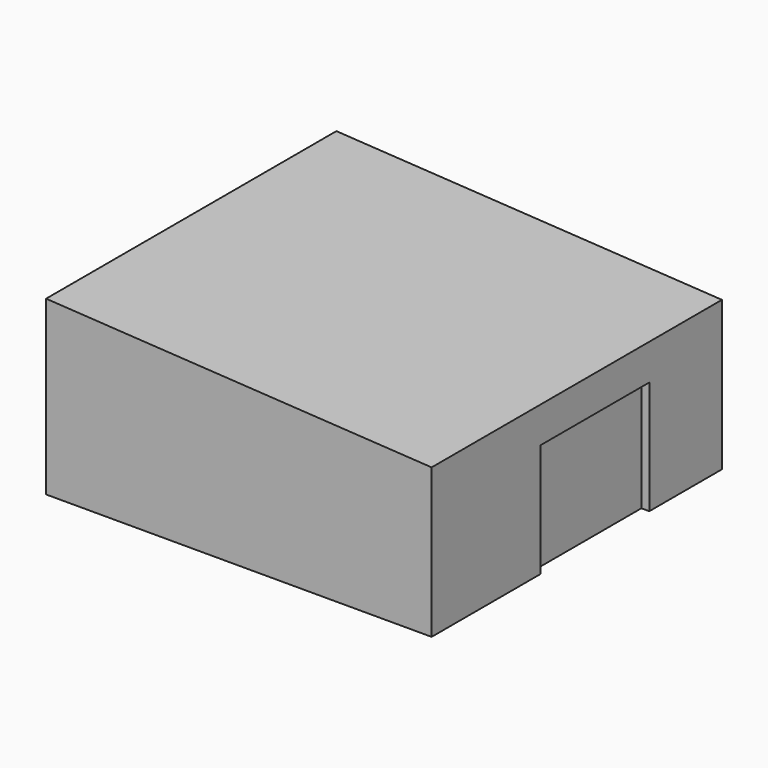
from build123d import *

# Parameters (mm, degrees)
F0_W     = 5000
F0_H     = 3500
F1_DEPTH = 8000
F3_W     = 3000
F3_H     = 2500
F4_DEPTH = 200


with BuildPart() as f1:
    # F0 (on Front) → F1 (new body)
    with BuildSketch(Plane.XZ):
        with Locations((-2500, 1750)):
            Rectangle(F0_W, F0_H)
        Polygon((0, 3500), (0, 0), (3500, 0), (3500, 3290), align=None)
        Polygon((-5000, 3500), (0, 3500), (-5000, 3800), align=None)
    extrude(amount=-F1_DEPTH)

    # F3 (on offset) → F4 (cut)
    with BuildSketch(Plane.YZ.offset(3525)):
        with Locations((4500, 1250)):
            Rectangle(F3_W, F3_H)
    extrude(amount=-F4_DEPTH, mode=Mode.SUBTRACT)


solid = f1.part
